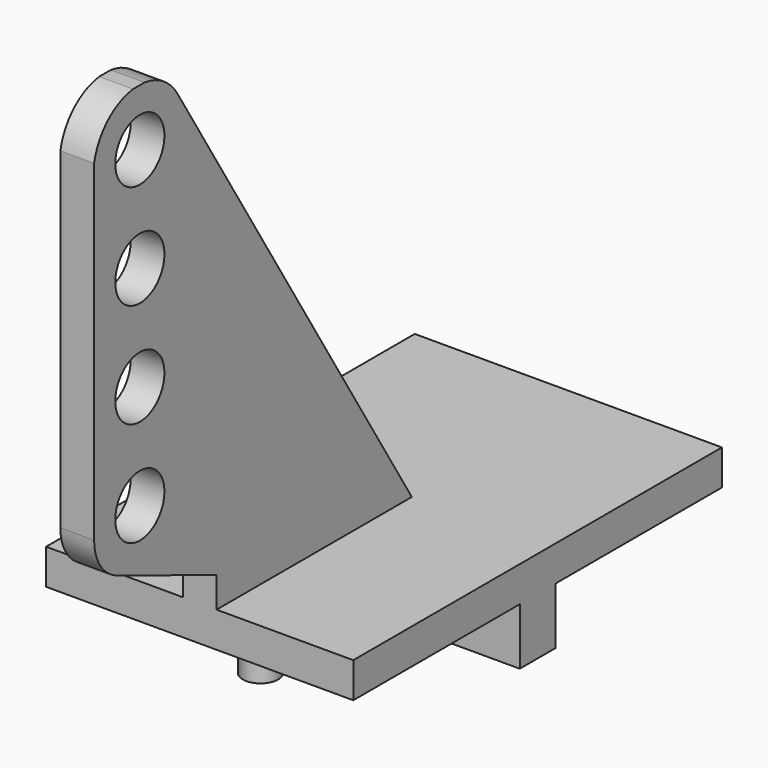
from build123d import *

# Parameters (mm, degrees)
F0_W     = 10
F0_H     = 15
F1_DEPTH = 1.15
F2_W     = 10
F2_H     = 1.45
F2_R     = 0.575
F3_DEPTH = 1.85
F5_W     = 1.0999371812
F5_H     = 4.9819686796
F5_H_2   = 7.9447921516
F6_DEPTH = 16.3
F7_R     = 1
F8_DEPTH = 3


with BuildPart() as f1:
    # F0 (on Top) → F1 (new body)
    with BuildSketch(Plane.XY):
        with Locations((4.657e-07, -0.4447921516)):
            Rectangle(F0_W, F0_H)
    extrude(amount=F1_DEPTH)

    # F2 (on face) → F3 (join)
    with BuildSketch(Plane(origin=(0, 0, 0), x_dir=(1, 0, 0), z_dir=(0, 0, -1))):
        with Locations((4.657e-07, 0.4447921516)):
            Rectangle(F2_W, F2_H)
        with Locations((4.657e-07, -4.5802078484)):
            Circle(F2_R)
        with Locations((4.657e-07, 5.4697921516)):
            Circle(F2_R)
    extrude(amount=F3_DEPTH)

    # F5 (on face) → F6 (join)
    with BuildSketch(Plane.XY.offset(1.15)):
        with Locations((-3.14094e-05, -10.4357764914)):
            Rectangle(F5_W, F5_H)
        with Locations((-3.14094e-05, -3.9723960758)):
            Rectangle(F5_W, F5_H_2)
    extrude(amount=F6_DEPTH)

    # F7 (on face) → F8 (cut)
    with BuildSketch(Plane(origin=(-0.55, 0, 0), x_dir=(0, -1, 0), z_dir=(-1, 0, 0))):
        with BuildLine():
            Line((0, 17.45), (0, 1.15))
            Line((0, 1.15), (9.5370645307, 16.5871438408))
            ThreePointArc((9.5370645307, 16.5871438408), (10.109500032, 17.170324419), (10.8773304556, 17.45))
            Line((10.8773304556, 17.45), (0, 17.45))
        make_face()
        with BuildLine():
            Line((12.9267608312, 17.45), (11.3445362076, 17.45))
            ThreePointArc((11.3445362076, 17.45), (12.375279512, 16.9653370525), (12.9267608312, 15.9687437117))
            Line((12.9267608312, 15.9687437117), (12.9267608312, 17.45))
        make_face()
        with Locations((11.0667608312, 15.6007357099)):
            Circle(F7_R)
        with Locations((11.0667608312, 12.2007357099)):
            Circle(F7_R)
        with Locations((11.0667608312, 8.8007357099)):
            Circle(F7_R)
        with Locations((11.0667608312, 5.4007357099)):
            Circle(F7_R)
        with BuildLine():
            Line((7.9447921516, 2.1431122441), (7.9447921516, 1.15))
            Line((7.9447921516, 1.15), (12.9267608312, 1.15))
            Line((12.9267608312, 1.15), (12.9267608312, 4.15))
            Line((12.9267608312, 4.15), (12.9267608312, 5.1628855511))
            ThreePointArc((12.9267608312, 5.1628855511), (12.6698856531, 4.3234567709), (11.9872399284, 3.7715325472))
            Line((11.9872399284, 3.7715325472), (7.9447921516, 2.1431122441))
        make_face()
    extrude(amount=-F8_DEPTH, mode=Mode.SUBTRACT)


solid = f1.part
